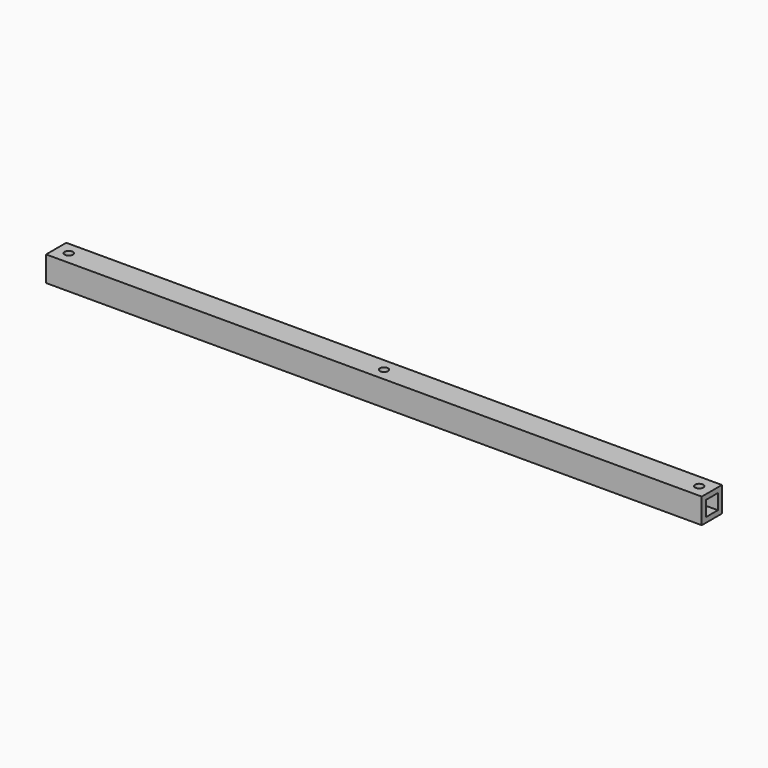
from build123d import *

# Parameters (mm, degrees)
F0_W     = 330.2
F0_H     = 12.7
F0_R     = 2.032
F1_DEPTH = 12.7
F2_W     = 7.62
F2_H     = 7.62
F3_DEPTH = 424.18


with BuildPart() as f1:
    # F0 (on Top) → F1 (new body)
    with BuildSketch(Plane.XY):
        Rectangle(F0_W, F0_H)
        with Locations((-158.75, 0)):
            Circle(F0_R, mode=Mode.SUBTRACT)
        Circle(F0_R, mode=Mode.SUBTRACT)
        with Locations((158.75, 0)):
            Circle(F0_R, mode=Mode.SUBTRACT)
    extrude(amount=F1_DEPTH)

    # F2 (on face) → F3 (cut)
    with BuildSketch(Plane(origin=(-165.1, 0, 0), x_dir=(0, -1, 0), z_dir=(-1, 0, 0))):
        with Locations((0, 6.35)):
            Rectangle(F2_W, F2_H)
    extrude(amount=-F3_DEPTH, mode=Mode.SUBTRACT)


solid = f1.part
